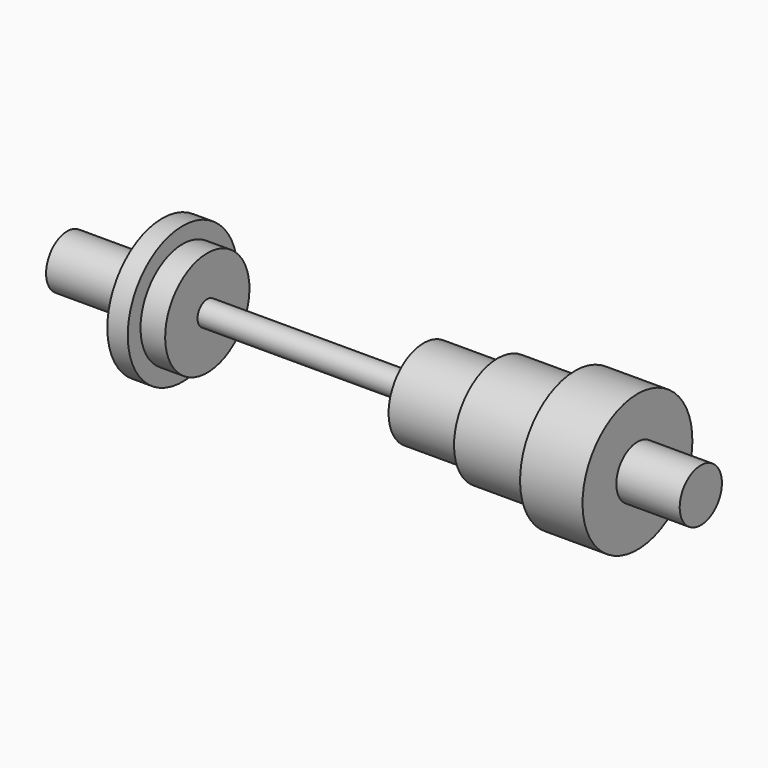
from build123d import *

# Parameters (mm, degrees)
F2_R     = 2
F3_DEPTH = 6.501


with BuildPart() as f1:
    # F0 (on Front) → F1 (revolve)
    with BuildSketch(Plane.XZ):
        Polygon((-30, 2.5), (-30, 0), (2.092156, 0), (2.092156, 1.155926), (-16.733287, 1.155926), (-16.733287, 4.987653), (-19.065645, 4.987653), (-19.065645, 6.5), (-21, 6.5), (-21, 2.5), align=None)
        Polygon((30, 0), (30, 2.5), (24, 2.5), (24, 6.5), (18.085454, 6.5), (18.085454, 5.15425), (10.755192, 5.15425), (10.755192, 4.154669), (3.758125, 4.154669), (3.758125, 0), align=None)
    revolve(axis=Axis((-13.953922, 0, 0), (1, 0, 0)))

    # F2 (on Front) → F3 (cut, through all)
    with BuildSketch(Plane.XZ):
        with Locations((27.5, 0)):
            Circle(F2_R)
        with Locations((-27.5, 0)):
            Circle(F2_R)
    extrude(amount=-F3_DEPTH, mode=Mode.SUBTRACT)


solid = f1.part
